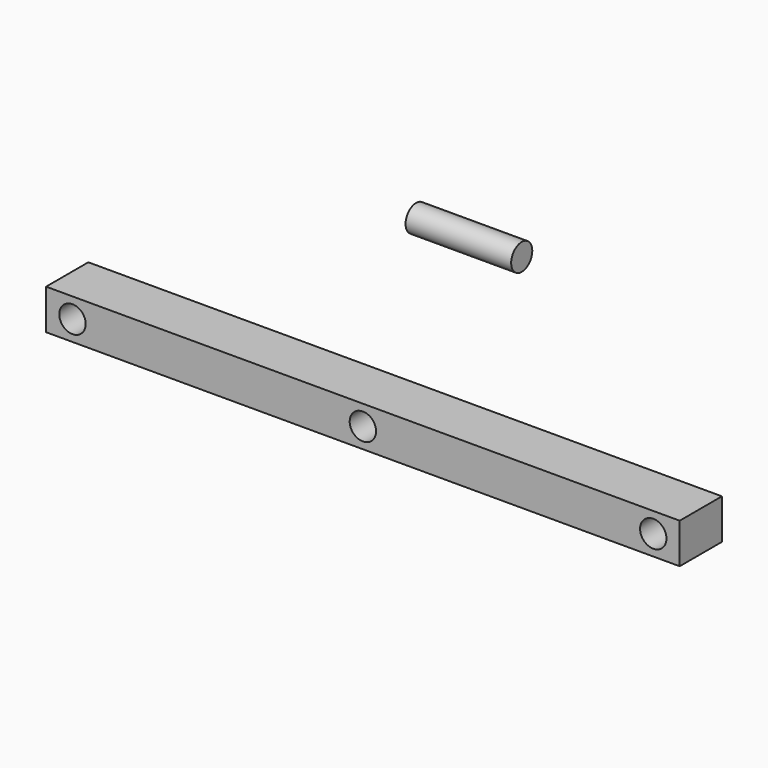
from build123d import *

# Parameters (mm, degrees)
F0_R     = 6.35
F1_DEPTH = 12.7
F2_R     = 6.35
F3_DEPTH = 25.4


with BuildPart() as f1:
    # F0 (on Front) → F1 (new body, symmetric)
    with BuildSketch(Plane.XZ):
        Polygon((152.4, -9.649447), (152.4, 9.649447), (0, 9.649447), (-152.4, 9.649447), (-152.4, -9.649447), align=None)
        with Locations((-139.7, 0)):
            Circle(F0_R, mode=Mode.SUBTRACT)
        Circle(F0_R, mode=Mode.SUBTRACT)
        with Locations((139.7, 0)):
            Circle(F0_R, mode=Mode.SUBTRACT)
    extrude(amount=F1_DEPTH, both=True)


with BuildPart() as f3:
    # F2 (on Right) → F3 (new body, symmetric)
    with BuildSketch(Plane.YZ):
        with Locations((51.06166, 54.144122)):
            Circle(F2_R)
    extrude(amount=F3_DEPTH, both=True)


solid = Compound([f1.part, f3.part])
